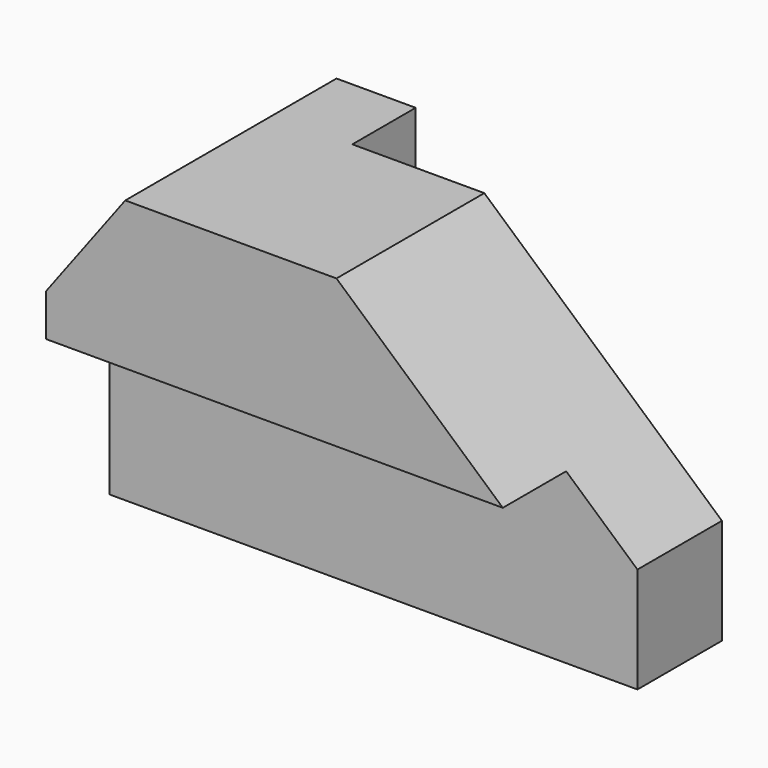
from build123d import *

# Parameters (mm, degrees)
F1_DEPTH = 50
F2_W     = 100
F2_H     = 32
F3_DEPTH = 15
F4_W     = 70
F4_H     = 60
F5_DEPTH = 15


with BuildPart() as f1:
    # F0 (on Front) → F1 (new body)
    with BuildSketch(Plane.XZ):
        Polygon((0, 40), (0, 0), (100, 0), (100, 20), (55, 60), (15, 60), align=None)
    extrude(amount=F1_DEPTH)

    # F2 (on face) → F3 (cut)
    with BuildSketch(Plane.XZ.offset(50)):
        with Locations((50, 16)):
            Rectangle(F2_W, F2_H)
    extrude(amount=-F3_DEPTH, mode=Mode.SUBTRACT)

    # F4 (on face) → F5 (cut)
    with BuildSketch(Plane(origin=(0, 0, 0), x_dir=(-1, 0, 0), z_dir=(0, 1, 0))):
        with Locations((-65, 30)):
            Rectangle(F4_W, F4_H)
    extrude(amount=-F5_DEPTH, mode=Mode.SUBTRACT)


solid = f1.part
